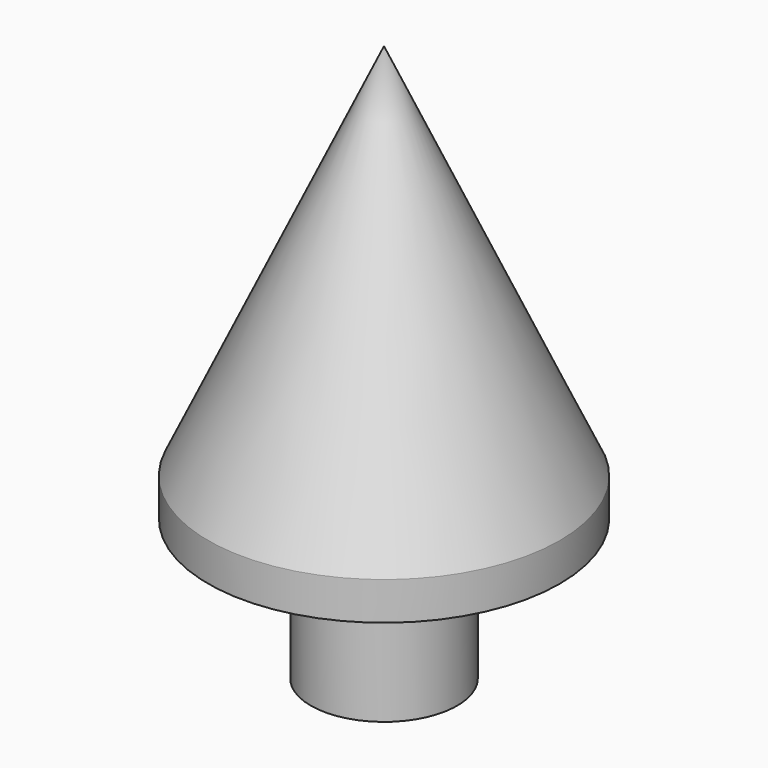
from build123d import *

# Parameters (mm, degrees)
F0_W     = 3.175
F0_H     = 6.096
F3_D     = 3.048
F3_DEPTH = 17.145
F3_TIP   = 0.9157115834


with BuildPart() as f1:
    # F0 (on Front) → F1 (revolve)
    with BuildSketch(Plane.XZ):
        Polygon((-11.9569151578, -1.651), (-11.9569151578, 16.383), (-19.5769151578, 0), (-19.5769151578, -1.651), (-15.1319151578, -1.651), align=None)
        with Locations((-13.5444151578, -4.699)):
            Rectangle(F0_W, F0_H)
    revolve(axis=Axis((-11.9569151578, 0, 7.366), (0, 0, -1)))

    # F3
    with Locations(Plane(origin=(0, 0, -7.747), x_dir=(1, 0, 0), z_dir=(0, 0, -1))):
        with Locations((-11.9569151578, 0)):
            Hole(F3_D / 2, depth=F3_DEPTH)
            with Locations((0, 0, -(F3_DEPTH + F3_TIP / 2))):  # 118° drill point
                Cone(0, F3_D / 2, F3_TIP, mode=Mode.SUBTRACT)


solid = f1.part
